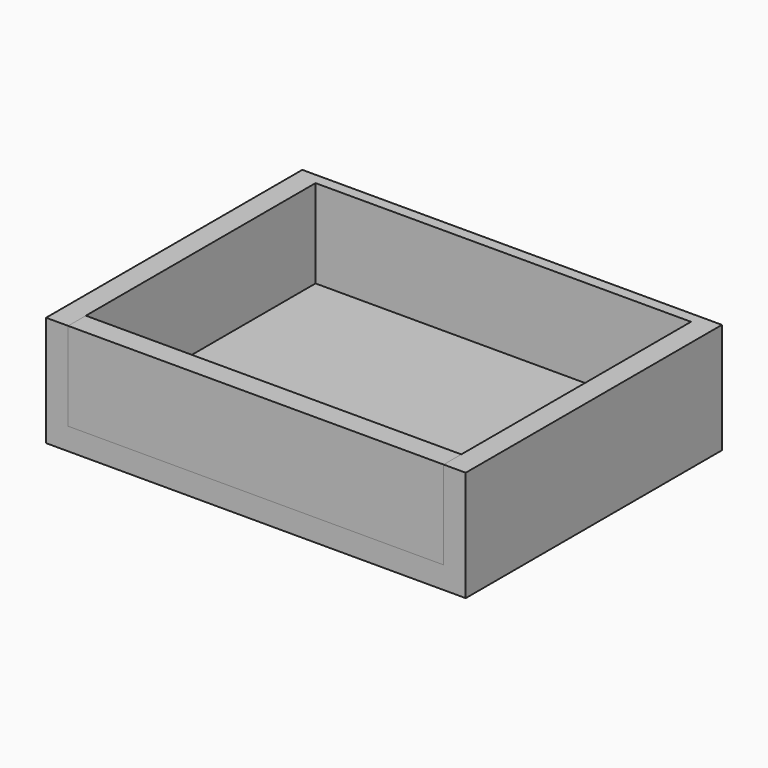
from build123d import *

# Parameters (mm, degrees)
F1_DEPTH = 355.6
F2_W     = 431.8
F2_H     = 101.6
F3_DEPTH = 25.4
F4_W     = 482.6
F4_H     = 127
F5_DEPTH = 12.7
F6_W     = 83.9129313827
F6_H     = 11.058293283
F7_DEPTH = 7.62


with BuildPart() as f1:
    # F0 (on Front) → F1 (new body)
    with BuildSketch(Plane.XZ):
        Polygon((-241.3, -63.5), (241.3, -63.5), (241.3, 63.5), (215.9, 63.5), (215.9, -38.1), (-215.9, -38.1), (-215.9, 63.5), (-241.3, 63.5), align=None)
    extrude(amount=F1_DEPTH)

    # F4 (on face) → F5 (join)
    with BuildSketch(Plane(origin=(0, 0, 0), x_dir=(-1, 0, 0), z_dir=(0, 1, 0))):
        Rectangle(F4_W, F4_H)
    extrude(amount=F5_DEPTH)

    # F6 (on face) → F7 (join)
    with BuildSketch(Plane(origin=(0, 12.7, 0), x_dir=(-1, 0, 0), z_dir=(0, 1, 0))):
        Rectangle(F6_W, F6_H)
    extrude(amount=F7_DEPTH)


with BuildPart() as f3:
    # F2 (on face) → F3 (new body)
    with BuildSketch(Plane.XZ.offset(355.6)):
        with Locations((0, 12.7)):
            Rectangle(F2_W, F2_H)
    extrude(amount=-F3_DEPTH)


solid = Compound([f1.part, f3.part])
